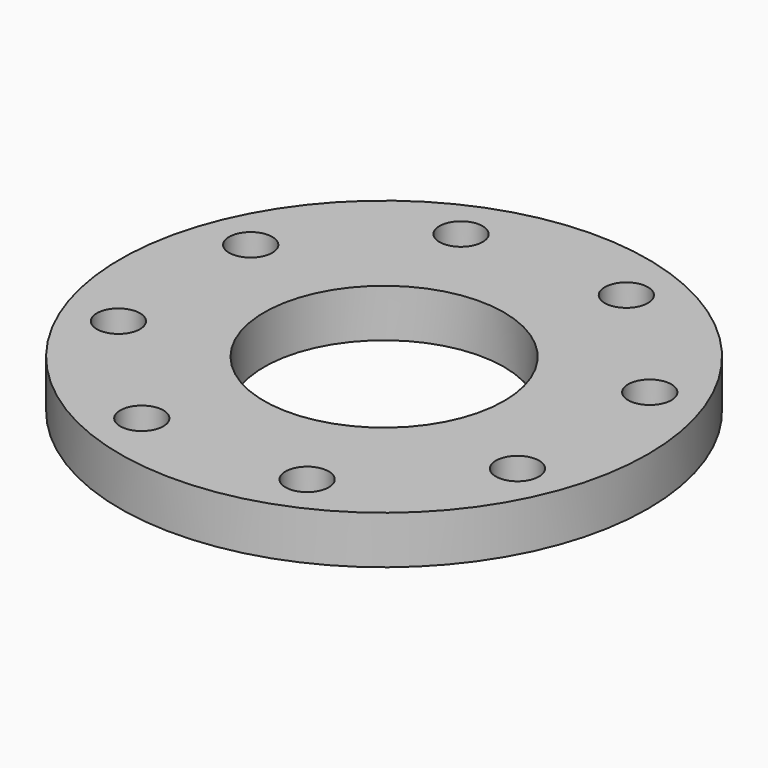
from build123d import *

# Parameters (mm, degrees)
F0_R     = 110
F0_R_2   = 9
F0_R_3   = 50
F1_DEPTH = 20


with BuildPart() as f1:
    # F0 (on Top) → F1 (new body)
    with BuildSketch(Plane.XY):
        Circle(F0_R)
        with Locations((-34.45, -83.15)):
            Circle(F0_R_2, mode=Mode.SUBTRACT)
        with Locations((-83.15, -34.45)):
            Circle(F0_R_2, mode=Mode.SUBTRACT)
        with Locations((34.45, -83.15)):
            Circle(F0_R_2, mode=Mode.SUBTRACT)
        with Locations((83.15, -34.45)):
            Circle(F0_R_2, mode=Mode.SUBTRACT)
        with Locations((-83.15, 34.45)):
            Circle(F0_R_2, mode=Mode.SUBTRACT)
        with Locations((-34.45, 83.15)):
            Circle(F0_R_2, mode=Mode.SUBTRACT)
        Circle(F0_R_3, mode=Mode.SUBTRACT)
        with Locations((83.15, 34.45)):
            Circle(F0_R_2, mode=Mode.SUBTRACT)
        with Locations((34.45, 83.15)):
            Circle(F0_R_2, mode=Mode.SUBTRACT)
    extrude(amount=F1_DEPTH)


solid = f1.part
